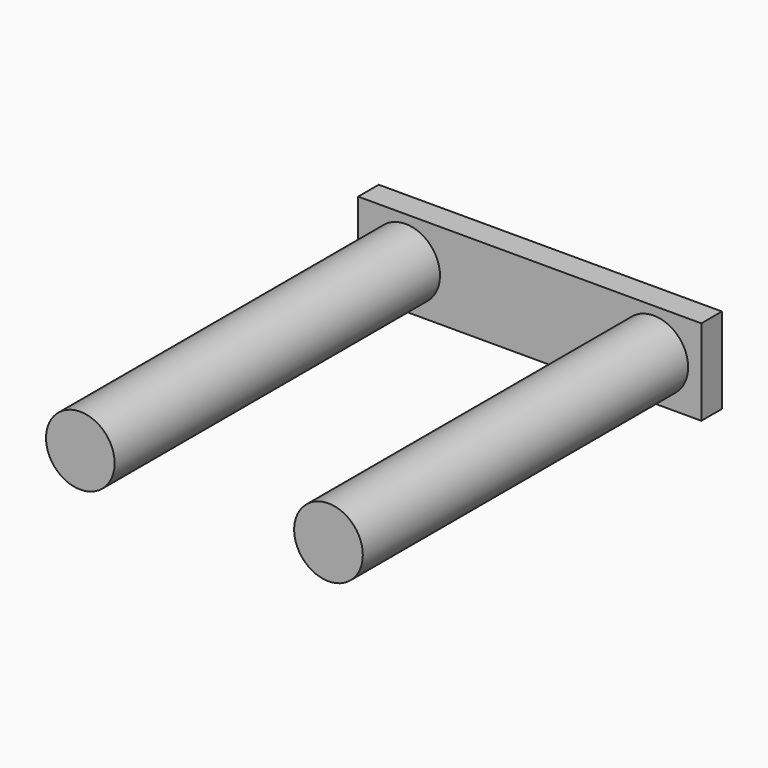
from build123d import *

# Parameters (mm, degrees)
F0_W     = 40
F0_H     = 10
F1_DEPTH = 3
F2_R     = 4
F3_DEPTH = 50.4


with BuildPart() as f1:
    # F0 (on Front) → F1 (new body)
    with BuildSketch(Plane.XZ):
        Rectangle(F0_W, F0_H)
    extrude(amount=F1_DEPTH)

    # F2 (on Front) → F3 (join)
    with BuildSketch(Plane.XZ):
        with Locations((-14.462383, 0)):
            Circle(F2_R)
        with Locations((14.462383, 0)):
            Circle(F2_R)
    extrude(amount=F3_DEPTH)


solid = f1.part
